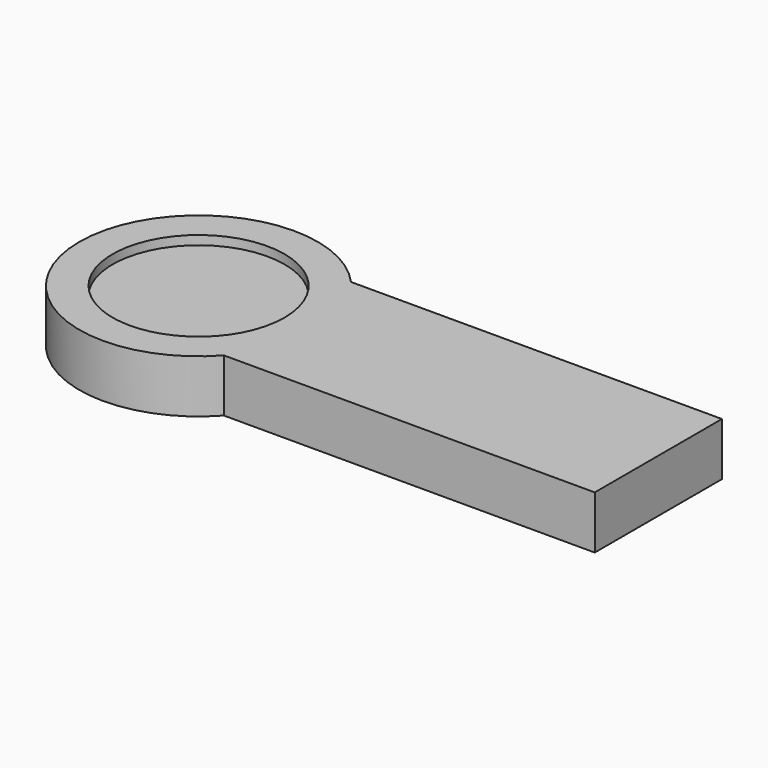
from build123d import *

# Parameters (mm, degrees)
F1_DEPTH = 10
F2_R     = 16.227476
F3_DEPTH = 1.7


with BuildPart() as f1:
    # F0 (on Top) → F1 (new body)
    with BuildSketch(Plane.XY):
        Polygon((-25.116405, 25.442633), (-95.116405, 25.442633), (-95.116405, 14.946147), (-95.116405, 5.939119), (-95.116405, -4.557367), (-25.116405, -4.557367), align=None)
        with BuildLine():
            Line((-95.116405, 5.939119), (-95.116405, 14.946147))
            ThreePointArc((-95.116405, 14.946147), (-129.251581, 10.442633), (-95.116405, 5.939119))
        make_face()
        with BuildLine():
            Line((-95.116405, 14.946147), (-95.116405, 25.442633))
            ThreePointArc((-95.116405, 25.442633), (-134.386914, 10.442633), (-95.116405, -4.557367))
            Line((-95.116405, -4.557367), (-95.116405, 5.939119))
            ThreePointArc((-95.116405, 5.939119), (-129.251581, 10.442633), (-95.116405, 14.946147))
        make_face()
    extrude(amount=F1_DEPTH)

    # F2 (on face) → F3 (cut)
    with BuildSketch(Plane.XY.offset(10)):
        with Locations((-111.886914, 10.442633)):
            Circle(F2_R)
    extrude(amount=-F3_DEPTH, mode=Mode.SUBTRACT)


solid = f1.part
